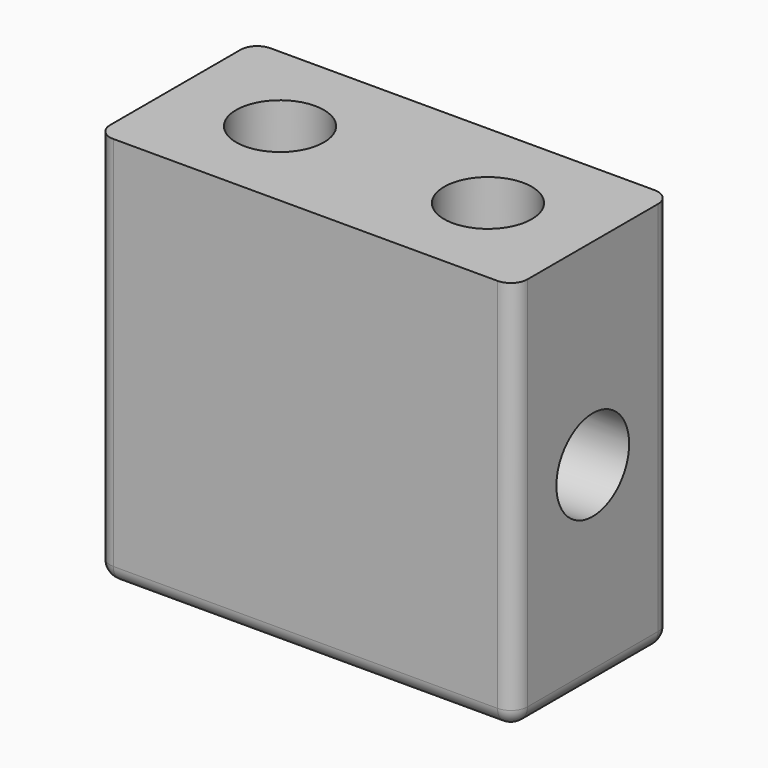
from build123d import *

# Parameters (mm, degrees)
F0_W     = 12.75
F0_H     = 6
F1_DEPTH = 6
F2_R     = 1.389063
F3_DEPTH = 12.751
F4_R     = 1.339063
F5_DEPTH = 6.35
F6_R     = 0.508


with BuildPart() as f1:
    # F0 (on Top) → F1 (new body, symmetric)
    with BuildSketch(Plane.XY):
        Rectangle(F0_W, F0_H)
    extrude(amount=F1_DEPTH, both=True)

    # F2 (on face) → F3 (cut, through all)
    with BuildSketch(Plane.YZ.offset(6.375)):
        Circle(F2_R)
    extrude(amount=-F3_DEPTH, mode=Mode.SUBTRACT)

    # F4 (on face) → F5 (cut)
    with BuildSketch(Plane.XY.offset(6)):
        with Locations((-3.175, 0)):
            Circle(F4_R)
        with Locations((3.175, 0)):
            Circle(F4_R)
    extrude(amount=-F5_DEPTH, mode=Mode.SUBTRACT)

    # F6
    f6_edges = [f1.edges().sort_by_distance(p)[0] for p in [
        (0, 3, -6),
        (6.375, 3, 0),
        (6.375, 0, -6),
        (6.375, -3, 0),
        (0, -3, -6),
        (-6.375, 0, -6),
        (-6.375, 3, 0),
        (-6.375, -3, 0),
    ]]
    fillet(f6_edges, radius=F6_R)


solid = f1.part
